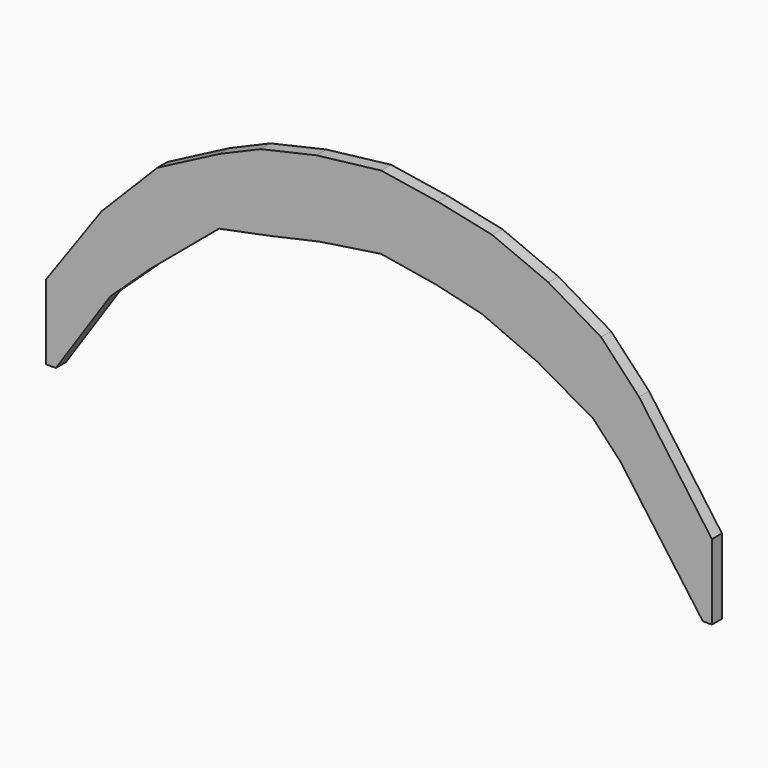
from build123d import *

# Parameters (mm, degrees)
F1_DEPTH = 22.86


with BuildPart() as f1:
    # F0 (on Front) → F1 (new body, symmetric)
    with BuildSketch(Plane.XZ):
        Polygon((0, 273.4526118953), (0, 0), (35.9202768172, 0), (234.8654246185, 295.3972927821), (382.0442121824, 432.4258489327), (632.6296829279, 642.6375525236), (816.0193565252, 679.3943324247), (1002.0310578339, 720.6064943581), (1225.1876494869, 754.0217488136), (1426.4048780486, 720.6064943581), (1594.5950512278, 680.5081890115), (1796.2004788625, 592.5146708404), (2000.3302640311, 475.8925789072), (2099.8095558031, 370.4613666557), (2401.6488703943, -46.1618247504), (2434.7510839535, -46.1618247504), (2434.7510839535, 229.0049480646), (2168.3376823043, 600.3677253761), (2029.3854579389, 748.0044859217), (1836.7387431586, 861.2736191491), (1630.8625939409, 947.4952035376), (1432.0251675048, 989.726122148), (1225.1876494869, 1022.35), (988.1475345476, 994.336207715), (784.0511628609, 947.840239837), (632.6296829279, 883.0190599636), (406.9557355053, 765.2755335849), (202.6896375115, 558.6277279222), align=None)
    extrude(amount=F1_DEPTH, both=True)


solid = f1.part
